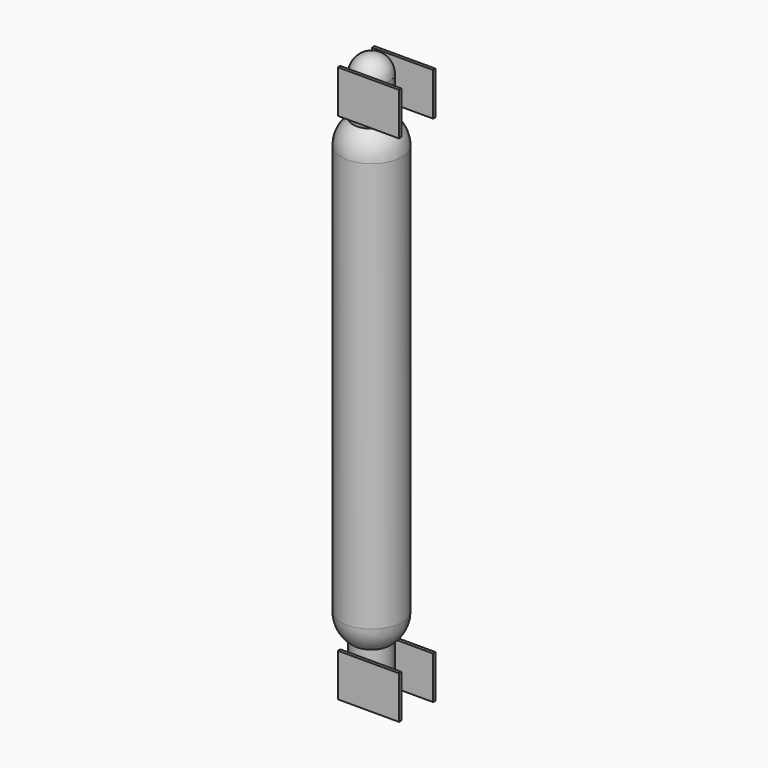
from build123d import *

# Parameters (mm, degrees)
SPHERE_ANGLE              = 180
SPHERE001_ANGLE           = 180
SPHERE002_ANGLE           = 180
CYLINDER003_R             = 3
CYLINDER003_DEPTH         = 6.35
SPHERE003_ANGLE           = 180
CYLINDER004_R             = 3
CYLINDER004_DEPTH         = 6.35
FUSION001_PLACEMENT_ANGLE = 180
BOX002_W                  = 10
BOX002_H                  = 0.5
BOX002_DEPTH              = 7
BOX001_W                  = 10
BOX001_H                  = 0.5
BOX001_DEPTH              = 7
BOX004_W                  = 10
BOX004_H                  = 0.5
BOX004_DEPTH              = 7
BOX003_W                  = 10
BOX003_H                  = 0.5
BOX003_DEPTH              = 7
CYLINDER_R                = 5
CYLINDER_DEPTH            = 67


with BuildPart() as sphere:
    # Sphere → Sphere (revolve)
    with BuildSketch(Plane(origin=(-7.5, 7.5, 20), x_dir=(1, 0, 0), z_dir=(0, 0, 1))):
        with BuildLine():
            ThreePointArc((0, -5), (5, 0), (0, 5))
            Line((0, 5), (0, -5))
        make_face()
    revolve(axis=Axis((-7.5, 7.5, 20), (0, 1, 0)), revolution_arc=SPHERE_ANGLE)


with BuildPart() as sphere001:
    # Sphere001 → Sphere001 (revolve)
    with BuildSketch(Plane(origin=(-7.5, 7.5, 87), x_dir=(1, 0, 0), z_dir=(0, 0, -1))):
        with BuildLine():
            ThreePointArc((0, -5), (5, 0), (0, 5))
            Line((0, 5), (0, -5))
        make_face()
    revolve(axis=Axis((-7.5, 7.5, 87), (0, -1, 0)), revolution_arc=SPHERE001_ANGLE)


with BuildPart() as sphere002:
    # Sphere002 → Sphere002 (revolve)
    with BuildSketch(Plane(origin=(-7.5, 7.5, 9.65), x_dir=(1, 0, 0), z_dir=(0, 0, 1))):
        with BuildLine():
            ThreePointArc((0, -3), (3, 0), (0, 3))
            Line((0, 3), (0, -3))
        make_face()
    revolve(axis=Axis((-7.5, 7.5, 9.65), (0, 1, 0)), revolution_arc=SPHERE002_ANGLE)


with BuildPart() as bottomend:
    # Cylinder003 → Cylinder003 (new body)
    with BuildSketch(Plane(origin=(-7.5, 7.5, 9.65), x_dir=(1, 0, 0), z_dir=(0, 0, 1))):
        Circle(CYLINDER003_R)
    extrude(amount=CYLINDER003_DEPTH)

    # Fusion: union Sphere002
    add(sphere002.part)


with BuildPart() as sphere003:
    # Sphere003 → Sphere003 (revolve)
    with BuildSketch(Plane(origin=(-7.5, 7.5, 9.65), x_dir=(1, 0, 0), z_dir=(0, 0, 1))):
        with BuildLine():
            ThreePointArc((0, -3), (3, 0), (0, 3))
            Line((0, 3), (0, -3))
        make_face()
    revolve(axis=Axis((-7.5, 7.5, 9.65), (0, 1, 0)), revolution_arc=SPHERE003_ANGLE)


with BuildPart() as topend:
    # Cylinder004 → Cylinder004 (new body)
    with BuildSketch(Plane(origin=(-7.5, 7.5, 9.65), x_dir=(1, 0, 0), z_dir=(0, 0, 1))):
        Circle(CYLINDER004_R)
    extrude(amount=CYLINDER004_DEPTH)

    # Fusion001: union Sphere003
    add(sphere003.part)


with BuildPart() as topend_1:
    # Fusion001 placement: moved
    add(topend.part.moved(Location((0, 15, 107))).rotate(Axis((0, 15, 107), (1, 0, 0)), FUSION001_PLACEMENT_ANGLE))


with BuildPart() as cube001:
    # Box002 → Box002 (new body)
    with BuildSketch(Plane(origin=(-10, 10.75, 8), x_dir=(1, 0, 0), z_dir=(0, 0, 1))):
        with Locations((5, 0.25)):
            Rectangle(BOX002_W, BOX002_H)
    extrude(amount=BOX002_DEPTH)


with BuildPart() as bottom_tubehold:
    # Box001 → Box001 (new body)
    with BuildSketch(Plane(origin=(-10, 3.75, 8), x_dir=(1, 0, 0), z_dir=(0, 0, 1))):
        with Locations((5, 0.25)):
            Rectangle(BOX001_W, BOX001_H)
    extrude(amount=BOX001_DEPTH)

    # Fusion002: union Cube001
    add(cube001.part)


with BuildPart() as cube003:
    # Box004 → Box004 (new body)
    with BuildSketch(Plane(origin=(-10, 10.75, 92), x_dir=(1, 0, 0), z_dir=(0, 0, 1))):
        with Locations((5, 0.25)):
            Rectangle(BOX004_W, BOX004_H)
    extrude(amount=BOX004_DEPTH)


with BuildPart() as top_tubehold:
    # Box003 → Box003 (new body)
    with BuildSketch(Plane(origin=(-10, 3.75, 92), x_dir=(1, 0, 0), z_dir=(0, 0, 1))):
        with Locations((5, 0.25)):
            Rectangle(BOX003_W, BOX003_H)
    extrude(amount=BOX003_DEPTH)

    # Fusion003: union Cube003
    add(cube003.part)


with BuildPart() as tube003:
    # Cylinder → Cylinder (new body)
    with BuildSketch(Plane(origin=(-7.5, 7.5, 20), x_dir=(1, 0, 0), z_dir=(0, 0, 1))):
        Circle(CYLINDER_R)
    extrude(amount=CYLINDER_DEPTH)

    # Fusion005: union Sphere, Sphere001, bottomend, topend, bottom_tubehold, top_tubehold
    add(sphere.part)
    add(sphere001.part)
    add(bottomend.part)
    add(topend_1.part)
    add(bottom_tubehold.part)
    add(top_tubehold.part)


solid = tube003.part
